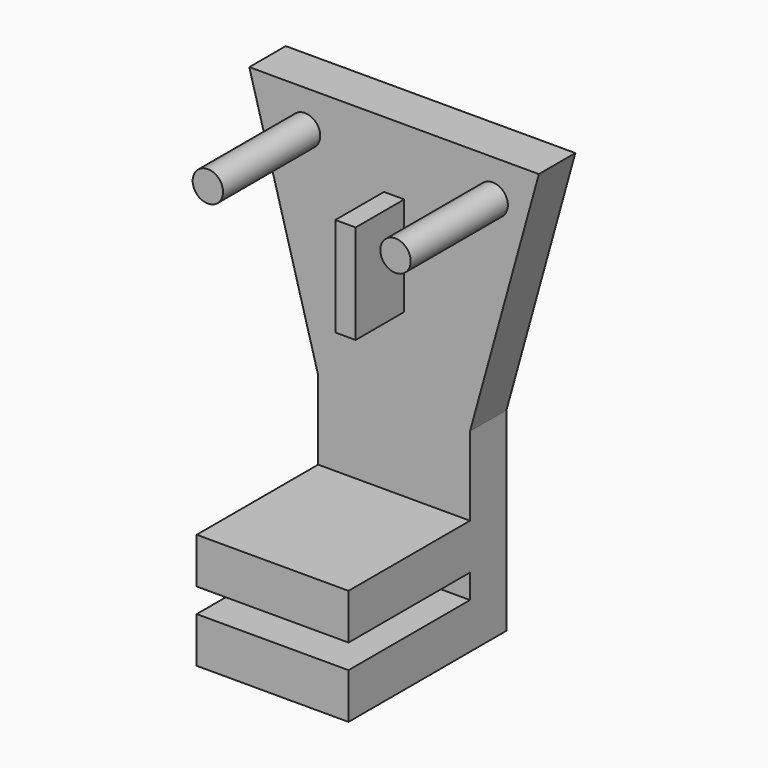
from build123d import *

# Parameters (mm, degrees)
F0_W     = 12.7
F0_H     = 16.2401907146
F1_DEPTH = 3.81
F2_W     = 12.7
F2_H     = 3.81
F3_DEPTH = 12.7
F4_R     = 1.27
F5_DEPTH = 10.16
F6_W     = 1.6954607129
F6_H     = 8.2879924147
F7_DEPTH = 5.08


with BuildPart() as f1:
    # F0 (on Front) → F1 (new body)
    with BuildSketch(Plane.XZ):
        with Locations((6.35, 8.1200953573)):
            Rectangle(F0_W, F0_H)
        Polygon((-5.7594607129, 37.0478025981), (0, 16.2401907146), (12.7, 16.2401907146), (18.4594607129, 37.0478025981), align=None)
    extrude(amount=F1_DEPTH)

    # F2 (on face) → F3 (join)
    with BuildSketch(Plane.XZ.offset(3.81)):
        with Locations((6.35, 1.905)):
            Rectangle(F2_W, F2_H)
        with Locations((6.35, 7.747)):
            Rectangle(F2_W, F2_H)
    extrude(amount=F3_DEPTH)

    # F4 (on face) → F5 (join)
    with BuildSketch(Plane.XZ.offset(3.81)):
        with Locations((14.5957274362, 33.9156836271)):
            Circle(F4_R)
        with Locations((-1.0984551627, 33.9156836271)):
            Circle(F4_R)
    extrude(amount=F5_DEPTH)

    # F6 (on face) → F7 (join)
    with BuildSketch(Plane.XZ.offset(3.81)):
        with Locations((6.35, 27.3775784299)):
            Rectangle(F6_W, F6_H)
    extrude(amount=F7_DEPTH)


solid = f1.part
